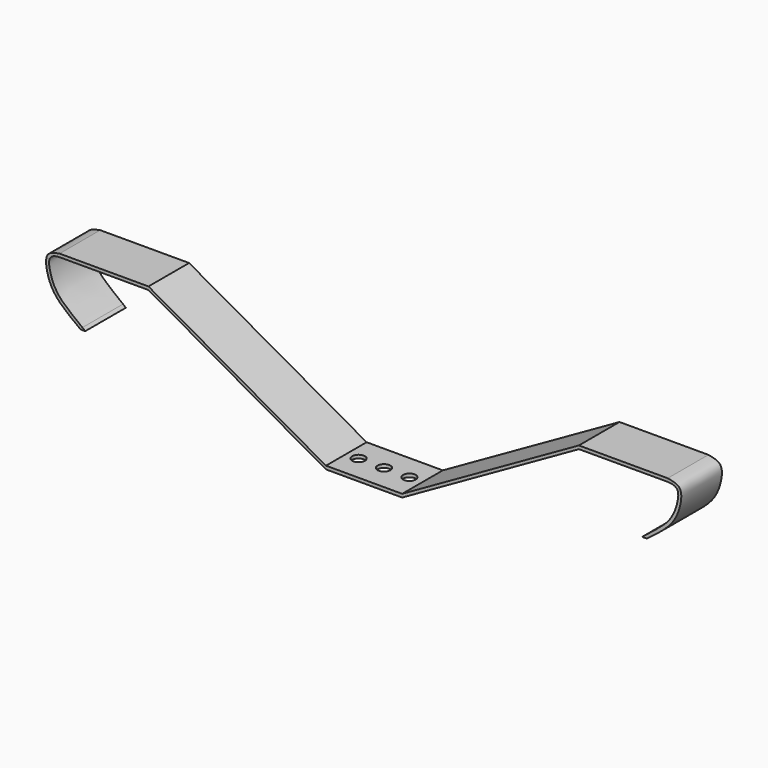
from build123d import *

# Parameters (mm, degrees)
F1_DEPTH = 25.4
F2_R     = 3.175
F3_DEPTH = 12.7


with BuildPart() as f1:
    # F0 (on Front) → F1 (new body)
    with BuildSketch(Plane.XZ):
        with BuildLine():
            Line((-18.853932295, -0.9037953805), (19.246067705, -0.9037953805))
            Line((19.246067705, -0.9037953805), (107.6620070872, 49.150995825))
            Line((107.6620070872, 49.150995825), (152.0988404129, 49.2108775302))
            add(Edge.make_bspline(
                [(152.0988404129, 49.2108775302), (154.096448251, 49.1571351558), (157.9680726407, 48.1639388699), (156.9887382525, 40.7006012119), (153.2726748418, 31.1757846536), (145.095218186, 25.5552398746), (140.677466878, 21.9591195048)],
                knots=[0, 0, 0, 0, 0.1888423696, 0.3980048629, 0.6653840554, 1, 1, 1, 1], degree=3))
            Line((140.677466878, 21.9591195048), (139.2667979812, 20.8108124135))
            Line((139.2667979812, 20.8108124135), (141.5670902347, 20.8108124135))
            add(Edge.make_bspline(
                [(152.0988404129, 50.7983775302), (154.306296926, 50.3681641551), (159.476931415, 49.611890584), (158.6795920841, 40.1344696534), (154.4483157881, 30.2280053539), (146.0442095515, 24.1682370519), (141.5670902347, 20.8108124135)],
                knots=[0, 0, 0, 0, 0.1998048876, 0.4203700309, 0.6819181132, 1, 1, 1, 1], degree=3))
            Line((152.0988404129, 50.7983775302), (107.6488404129, 50.7983775302))
            Line((107.6488404129, 50.7983775302), (19.246067705, 0.7510403555))
            Line((19.246067705, 0.7510403555), (-18.853932295, 0.7510403555))
            Line((-18.853932295, 0.7510403555), (-107.6488404129, 50.7983775302))
            Line((-107.6488404129, 50.7983775302), (-152.0988404129, 50.7983775302))
            Line((-152.0988404129, 50.7983775302), (-152.0988404129, 49.2108775302))
            Line((-152.0988404129, 49.2108775302), (-107.6488404129, 49.2108775302))
            Line((-107.6488404129, 49.2108775302), (-18.853932295, -0.9037953805))
        make_face()
        with BuildLine():
            Line((-157.2197924683, 49.1892070903), (-152.0988404129, 49.2108775302))
            Line((-152.0988404129, 49.2108775302), (-152.0988404129, 50.7983775302))
            add(Edge.make_bspline(
                [(-152.0988404129, 50.7983775302), (-153.9225163002, 50.4429595395), (-155.9169454372, 50.1358301213), (-157.2197924683, 49.1892070903)],
                knots=[0, 0, 0, 0, 0.1650675125, 0.1650675125, 0.1650675125, 0.1650675125], degree=3))
        make_face()
        with BuildLine():
            add(Edge.make_bspline(
                [(-152.0988404129, 49.2108775302), (-154.096448251, 49.1571351558), (-157.9680726407, 48.1639388699), (-156.9887382525, 40.7006012119), (-153.2726748418, 31.1757846536), (-145.095218186, 25.5552398746), (-140.677466878, 21.9591195048)],
                knots=[0, 0, 0, 0, 0.1888423696, 0.3980048629, 0.6653840554, 1, 1, 1, 1], degree=3))
            Line((-152.0988404129, 49.2108775302), (-157.2197924683, 49.1892070903))
            add(Edge.make_bspline(
                [(-157.2197924683, 49.1892070903), (-157.4939680784, 48.9899964839), (-159.283924634, 47.3177525231), (-158.6795920841, 40.1344696534), (-154.4483157881, 30.2280053539), (-146.0442095515, 24.1682370519), (-141.5670902347, 20.8108124135)],
                knots=[0.1650675125, 0.1650675125, 0.1650675125, 0.1650675125, 0.1998048876, 0.4203700309, 0.6819181132, 1, 1, 1, 1], degree=3))
            Line((-141.5670902347, 20.8108124135), (-139.2667979812, 20.8108124135))
            Line((-139.2667979812, 20.8108124135), (-140.677466878, 21.9591195048))
        make_face()
    extrude(amount=F1_DEPTH)

    # F2 (on face) → F3 (cut, symmetric)
    with BuildSketch(Plane.XY.offset(0.7510403555)):
        with Locations((0, -12.7)):
            Circle(F2_R)
        with Locations((-12.7, -12.7)):
            Circle(F2_R)
        with Locations((12.7, -12.7)):
            Circle(F2_R)
    extrude(amount=F3_DEPTH, both=True, mode=Mode.SUBTRACT)


solid = f1.part
